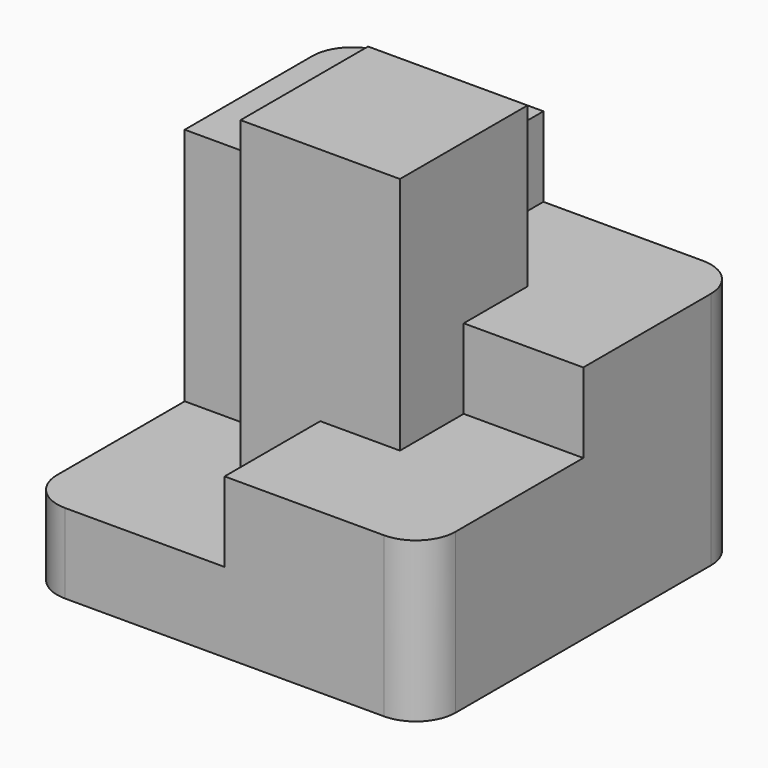
from build123d import *

# Parameters (mm, degrees)
F1_DEPTH = 20.32
F2_DEPTH = 15.24
F3_DEPTH = 25.4
F4_DEPTH = 10.16
F5_DEPTH = 5.08


with BuildPart() as f1:
    # F0 (on Top) → F1 (new body)
    with BuildSketch(Plane.XY):
        with BuildLine():
            Line((-0.715326, 13.86313), (-10.875326, 13.86313))
            ThreePointArc((-10.875326, 13.86313), (-12.671377, 13.119181), (-13.415326, 11.32313))
            Line((-13.415326, 11.32313), (-13.415326, 1.16313))
            Line((-13.415326, 1.16313), (-5.795326, 1.16313))
            Line((-5.795326, 1.16313), (-5.795326, 6.24313))
            Line((-5.795326, 6.24313), (-0.715326, 6.24313))
            Line((-0.715326, 6.24313), (-0.715326, 13.86313))
        make_face()
    extrude(amount=F1_DEPTH)

    # F0 (on Top) → F2 (join)
    with BuildSketch(Plane.XY):
        with BuildLine():
            Line((9.444674, 13.86313), (-0.715326, 13.86313))
            Line((-0.715326, 13.86313), (-0.715326, 6.24313))
            Line((-0.715326, 6.24313), (4.364674, 6.24313))
            Line((4.364674, 6.24313), (4.364674, 1.16313))
            Line((4.364674, 1.16313), (11.984674, 1.16313))
            Line((11.984674, 1.16313), (11.984674, 11.32313))
            ThreePointArc((11.984674, 11.32313), (11.240725, 13.119181), (9.444674, 13.86313))
        make_face()
    extrude(amount=F2_DEPTH)

    # F0 (on Top) → F3 (join)
    with BuildSketch(Plane.XY):
        Polygon((4.364674, 6.24313), (-0.715326, 6.24313), (-5.795326, 6.24313), (-5.795326, 1.16313), (-5.795326, -3.91687), (-0.715326, -3.91687), (4.364674, -3.91687), (4.364674, 1.16313), align=None)
    extrude(amount=F3_DEPTH)

    # F0 (on Top) → F4 (join)
    with BuildSketch(Plane.XY):
        with BuildLine():
            Line((11.984674, -8.99687), (11.984674, 1.16313))
            Line((11.984674, 1.16313), (4.364674, 1.16313))
            Line((4.364674, 1.16313), (4.364674, -3.91687))
            Line((4.364674, -3.91687), (-0.715326, -3.91687))
            Line((-0.715326, -3.91687), (-0.715326, -11.53687))
            Line((-0.715326, -11.53687), (9.444674, -11.53687))
            ThreePointArc((9.444674, -11.53687), (11.240725, -10.792922), (11.984674, -8.99687))
        make_face()
    extrude(amount=F4_DEPTH)

    # F0 (on Top) → F5 (join)
    with BuildSketch(Plane.XY):
        with BuildLine():
            Line((-5.795326, 1.16313), (-13.415326, 1.16313))
            Line((-13.415326, 1.16313), (-13.415326, -8.99687))
            ThreePointArc((-13.415326, -8.99687), (-12.671377, -10.792922), (-10.875326, -11.53687))
            Line((-10.875326, -11.53687), (-0.715326, -11.53687))
            Line((-0.715326, -11.53687), (-0.715326, -3.91687))
            Line((-0.715326, -3.91687), (-5.795326, -3.91687))
            Line((-5.795326, -3.91687), (-5.795326, 1.16313))
        make_face()
    extrude(amount=F5_DEPTH)


solid = f1.part
